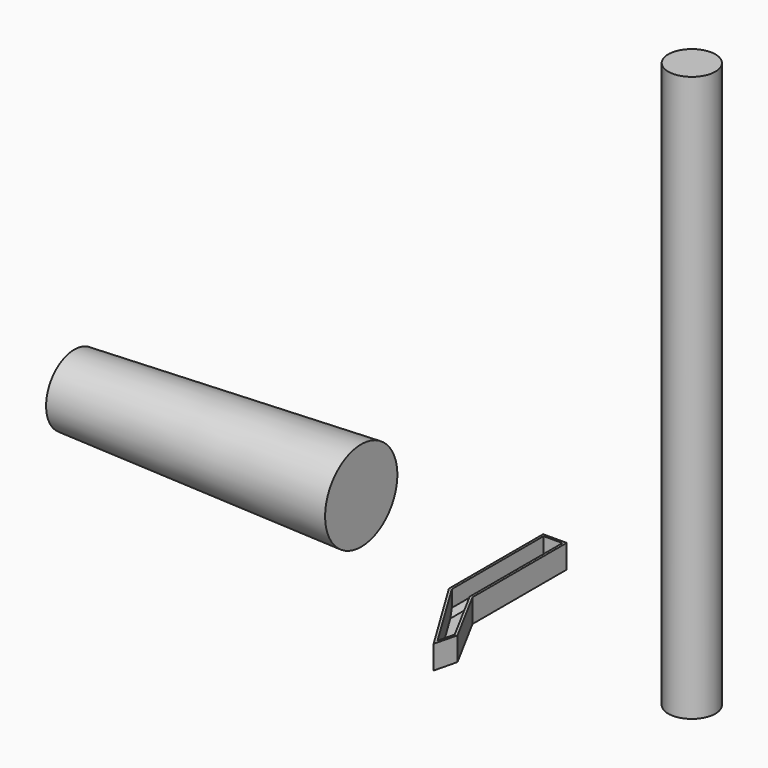
from build123d import *

# Parameters (mm, degrees)
F0_R     = 25.4
F1_DEPTH = 609.6
F3_DEPTH = 25.4
F4_T     = -2.54
F5_SIZE  = 5.08


with BuildPart() as f1:
    # F0 (on Top) → F1 (new body)
    with BuildSketch(Plane.XY):
        Circle(F0_R)
    extrude(amount=F1_DEPTH)


with BuildPart() as f3:
    # F2 (on Top) → F3 (new body)
    with BuildSketch(Plane.XY):
        Polygon((-261.9443330295, 0), (-209.064377976, -86.7540797515), (-203.0420857811, -62.078342747), (-236.5443330295, 0), (-236.5443330295, 127), (-261.9443330295, 127), (-261.9443330295, 25.4), align=None)
        Polygon((-261.9443330295, 0), (-209.064377976, -86.7540797515), (-203.0420857811, -62.078342747), (-236.5443330295, 0), (-236.5443330295, 127), (-261.9443330295, 127), (-261.9443330295, 25.4), align=None)
    extrude(amount=F3_DEPTH)

    # F4
    f4_openings = [f3.faces().sort_by_distance(p)[0] for p in [
        (-242.226686, 29.058726, 25.4),
    ]]
    offset(amount=F4_T, openings=f4_openings, kind=Kind.INTERSECTION)

    # F5
    f5_edges = [f3.edges().sort_by_distance(p)[0] for p in [
        (-259.404333, 62.586549, 2.54),
    ]]
    chamfer(f5_edges, length=F5_SIZE)


with BuildPart() as f7:
    # F6 (on Top) → F7 (revolve)
    with BuildSketch(Plane.XY):
        Polygon((-456.0544639826, 124.389693141), (-766.6897177696, 124.389693141), (-765.5018568039, 86.3769650459), (-456.0544639826, 75.6858810782), align=None)
    revolve(axis=Axis((-611.3720908761, 124.389693141, 0), (1, 0, 0)))


solid = Compound([f1.part, f3.part, f7.part])
